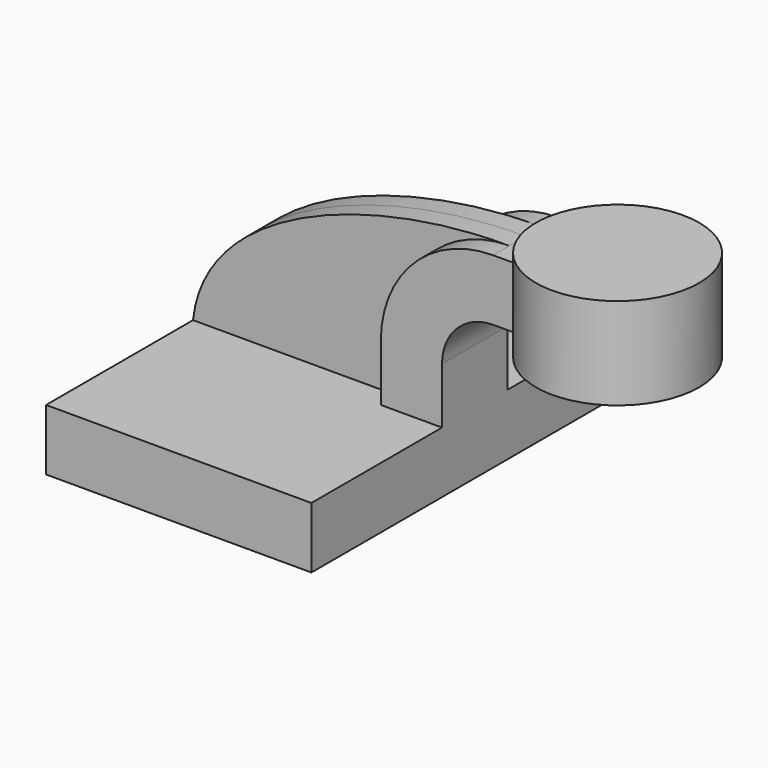
from build123d import *

# Parameters (mm, degrees)
F1_DEPTH = 63.5
F0_W     = 25.4
F0_H     = 19.05
F2_DEPTH = 12.7
F3_DEPTH = 6.35


with BuildPart() as f1:
    # F0 (on Front) → F1 (new body, symmetric)
    with BuildSketch(Plane.XZ):
        Polygon((-41.275, -9.525), (41.275, -9.525), (41.275, 9.525), (22.225, 9.525), (-41.275, 9.525), align=None)
    extrude(amount=F1_DEPTH, both=True)

    # F0 (on Front) → F2 (join, symmetric)
    with BuildSketch(Plane.XZ):
        with BuildLine():
            Line((22.225, 9.525), (41.275, 9.525))
            Line((41.275, 9.525), (41.275, 26.9748))
            ThreePointArc((41.275, 26.9748), (45.9246798487, 38.2001201513), (57.15, 42.8498))
            Line((57.15, 42.8498), (60.325, 42.8498))
            Line((60.325, 42.8498), (60.325, 61.8998))
            Line((60.325, 61.8998), (57.15, 61.8998))
            ThreePointArc((57.15, 61.8998), (32.4542956671, 51.6705043329), (22.225, 26.9748))
            Line((22.225, 26.9748), (22.225, 9.525))
        make_face()
        with Locations((73.025, 52.3748)):
            Rectangle(F0_W, F0_H)
    extrude(amount=F2_DEPTH, both=True)

    # F0 (on Front) → F3 (join, symmetric)
    with BuildSketch(Plane.XZ):
        with BuildLine():
            add(Edge.make_bspline(
                [(-41.275, 9.525), (-37.653952837, 44.1729426384), (14.4148990512, 62.1872842312), (57.15, 61.8998)],
                knots=[0, 0, 0, 0, 111.4926019969, 111.4926019969, 111.4926019969, 111.4926019969], degree=3))
            Line((-41.275, 9.525), (22.225, 9.525))
            Line((22.225, 9.525), (22.225, 26.9748))
            ThreePointArc((22.225, 26.9748), (32.4542956671, 51.6705043329), (57.15, 61.8998))
        make_face()
    extrude(amount=F3_DEPTH, both=True)

    # F0 (on Front) → F4 (revolve)
    with BuildSketch(Plane.XZ):
        Polygon((85.725, 66.675), (85.725, 61.8998), (85.725, 42.8498), (85.725, 38.1), (111.125, 38.1), (111.125, 66.675), align=None)
    revolve(axis=Axis((85.725, 0, 52.3875), (0, 0, 1)))


solid = f1.part
